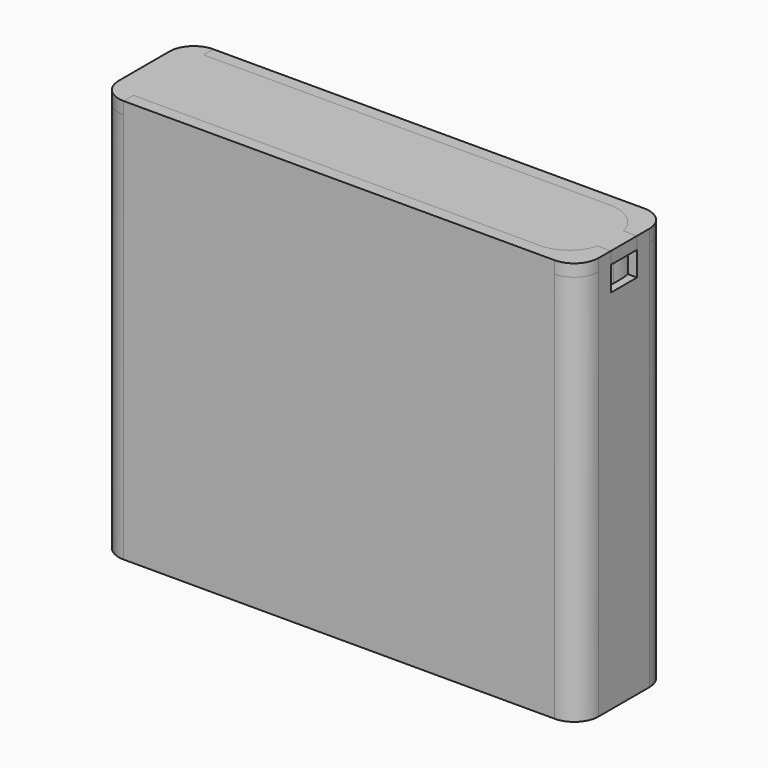
from build123d import *

# Parameters (mm, degrees)
SKETCH_W        = 117.7
SKETCH_H        = 27.5
SKETCH_R        = 2
PAD_DEPTH       = 2
SKETCH001_W     = 117.7
SKETCH001_H     = 27.5
SKETCH001_W_2   = 113.7
SKETCH001_H_2   = 23.5
PAD001_DEPTH    = 94
FILLET_R        = 10
FILLET001_R     = 6
SKETCH002_R     = 3.5
PAD002_DEPTH    = 5
SKETCH003_W     = 4
SKETCH003_H     = 8
POCKET_DEPTH    = 6
PAD003_DEPTH    = 1.5
PAD004_DEPTH    = 1.5
SKETCH006_W     = 6
SKETCH006_H     = 8
POCKET001_DEPTH = 3
PAD005_DEPTH    = 1.5
PAD006_DEPTH    = 1.5
SKETCH009_W     = 8
SKETCH009_H     = 3
PAD007_DEPTH    = 3
FILLET002_R     = 5.99


with BuildPart() as shell:
    # Sketch → Pad (new body)
    with BuildSketch(Plane.XY):
        Rectangle(SKETCH_W, SKETCH_H)
        with Locations((8, -8)):
            Circle(SKETCH_R, mode=Mode.SUBTRACT)
        with Locations((16, -8)):
            Circle(SKETCH_R, mode=Mode.SUBTRACT)
        with Locations((24, -8)):
            Circle(SKETCH_R, mode=Mode.SUBTRACT)
        with Locations((32, -8)):
            Circle(SKETCH_R, mode=Mode.SUBTRACT)
        with Locations((40, -8)):
            Circle(SKETCH_R, mode=Mode.SUBTRACT)
        with Locations((48, -8)):
            Circle(SKETCH_R, mode=Mode.SUBTRACT)
        with Locations((48, 0)):
            Circle(SKETCH_R, mode=Mode.SUBTRACT)
        with Locations((40, 0)):
            Circle(SKETCH_R, mode=Mode.SUBTRACT)
        with Locations((32, 0)):
            Circle(SKETCH_R, mode=Mode.SUBTRACT)
        with Locations((24, 0)):
            Circle(SKETCH_R, mode=Mode.SUBTRACT)
        with Locations((16, 0)):
            Circle(SKETCH_R, mode=Mode.SUBTRACT)
        with Locations((8, 0)):
            Circle(SKETCH_R, mode=Mode.SUBTRACT)
        Circle(SKETCH_R, mode=Mode.SUBTRACT)
        with Locations((0, -8)):
            Circle(SKETCH_R, mode=Mode.SUBTRACT)
        with Locations((0, 8)):
            Circle(SKETCH_R, mode=Mode.SUBTRACT)
        with Locations((8, 8)):
            Circle(SKETCH_R, mode=Mode.SUBTRACT)
        with Locations((16, 8)):
            Circle(SKETCH_R, mode=Mode.SUBTRACT)
        with Locations((24, 8)):
            Circle(SKETCH_R, mode=Mode.SUBTRACT)
        with Locations((32, 8)):
            Circle(SKETCH_R, mode=Mode.SUBTRACT)
        with Locations((40, 8)):
            Circle(SKETCH_R, mode=Mode.SUBTRACT)
        with Locations((48, 8)):
            Circle(SKETCH_R, mode=Mode.SUBTRACT)
        with Locations((-8, -8)):
            Circle(SKETCH_R, mode=Mode.SUBTRACT)
        with Locations((-8, 0)):
            Circle(SKETCH_R, mode=Mode.SUBTRACT)
        with Locations((-8, 8)):
            Circle(SKETCH_R, mode=Mode.SUBTRACT)
        with Locations((-16, 8)):
            Circle(SKETCH_R, mode=Mode.SUBTRACT)
        with Locations((-16, 0)):
            Circle(SKETCH_R, mode=Mode.SUBTRACT)
        with Locations((-16, -8)):
            Circle(SKETCH_R, mode=Mode.SUBTRACT)
        with Locations((-24, -8)):
            Circle(SKETCH_R, mode=Mode.SUBTRACT)
        with Locations((-32, -8)):
            Circle(SKETCH_R, mode=Mode.SUBTRACT)
        with Locations((-40, -8)):
            Circle(SKETCH_R, mode=Mode.SUBTRACT)
        with Locations((-48, -8)):
            Circle(SKETCH_R, mode=Mode.SUBTRACT)
        with Locations((-48, 0)):
            Circle(SKETCH_R, mode=Mode.SUBTRACT)
        with Locations((-40, 0)):
            Circle(SKETCH_R, mode=Mode.SUBTRACT)
        with Locations((-32, 0)):
            Circle(SKETCH_R, mode=Mode.SUBTRACT)
        with Locations((-24, 0)):
            Circle(SKETCH_R, mode=Mode.SUBTRACT)
        with Locations((-24, 8)):
            Circle(SKETCH_R, mode=Mode.SUBTRACT)
        with Locations((-32, 8)):
            Circle(SKETCH_R, mode=Mode.SUBTRACT)
        with Locations((-40, 8)):
            Circle(SKETCH_R, mode=Mode.SUBTRACT)
        with Locations((-48, 8)):
            Circle(SKETCH_R, mode=Mode.SUBTRACT)
    extrude(amount=PAD_DEPTH)

    # Sketch001 (on Face45 of Pad) → Pad001 (join)
    with BuildSketch(Plane.XY.offset(2)):
        Rectangle(SKETCH001_W, SKETCH001_H)
        Rectangle(SKETCH001_W_2, SKETCH001_H_2, mode=Mode.SUBTRACT)
    extrude(amount=PAD001_DEPTH)

    # Fillet
    fillet_edges = [shell.edges().sort_by_distance(p)[0] for p in [
        (56.85, 11.75, 49),
        (56.85, -11.75, 49),
        (-56.85, 11.75, 49),
        (-56.85, -11.75, 49),
    ]]
    fillet(fillet_edges, radius=FILLET_R)

    # Fillet001
    fillet001_edges = [shell.edges().sort_by_distance(p)[0] for p in [
        (58.85, -13.75, 48),
        (58.85, 13.75, 48),
        (-58.85, -13.75, 48),
        (-58.85, 13.75, 48),
    ]]
    fillet(fillet001_edges, radius=FILLET001_R)

    # Sketch002 (on Face19 of Fillet001) → Pad002 (join)
    with BuildSketch(Plane.XY.offset(2)):
        with BuildLine():
            Line((-46.85, -11.75), (46.85, -11.75))
            ThreePointArc((46.85, -11.75), (53.921068, -8.821068), (56.85, -1.75))
            Line((56.85, -1.75), (56.85, 1.75))
            ThreePointArc((56.85, 1.75), (53.921068, 8.821068), (46.85, 11.75))
            Line((46.85, 11.75), (-46.85, 11.75))
            ThreePointArc((-46.85, 11.75), (-53.921068, 8.821068), (-56.85, 1.75))
            Line((-56.85, 1.75), (-56.85, -1.75))
            ThreePointArc((-56.85, -1.75), (-53.921068, -8.821068), (-46.85, -11.75))
        make_face()
        with Locations((8, -8)):
            Circle(SKETCH002_R, mode=Mode.SUBTRACT)
        with Locations((16, -8)):
            Circle(SKETCH002_R, mode=Mode.SUBTRACT)
        with Locations((24, -8)):
            Circle(SKETCH002_R, mode=Mode.SUBTRACT)
        with Locations((32, -8)):
            Circle(SKETCH002_R, mode=Mode.SUBTRACT)
        with Locations((40, -8)):
            Circle(SKETCH002_R, mode=Mode.SUBTRACT)
        with Locations((48, -8)):
            Circle(SKETCH002_R, mode=Mode.SUBTRACT)
        with Locations((48, 0)):
            Circle(SKETCH002_R, mode=Mode.SUBTRACT)
        with Locations((40, 0)):
            Circle(SKETCH002_R, mode=Mode.SUBTRACT)
        with Locations((32, 0)):
            Circle(SKETCH002_R, mode=Mode.SUBTRACT)
        with Locations((24, 0)):
            Circle(SKETCH002_R, mode=Mode.SUBTRACT)
        with Locations((16, 0)):
            Circle(SKETCH002_R, mode=Mode.SUBTRACT)
        with Locations((8, 0)):
            Circle(SKETCH002_R, mode=Mode.SUBTRACT)
        Circle(SKETCH002_R, mode=Mode.SUBTRACT)
        with Locations((0, -8)):
            Circle(SKETCH002_R, mode=Mode.SUBTRACT)
        with Locations((0, 8)):
            Circle(SKETCH002_R, mode=Mode.SUBTRACT)
        with Locations((8, 8)):
            Circle(SKETCH002_R, mode=Mode.SUBTRACT)
        with Locations((16, 8)):
            Circle(SKETCH002_R, mode=Mode.SUBTRACT)
        with Locations((24, 8)):
            Circle(SKETCH002_R, mode=Mode.SUBTRACT)
        with Locations((32, 8)):
            Circle(SKETCH002_R, mode=Mode.SUBTRACT)
        with Locations((40, 8)):
            Circle(SKETCH002_R, mode=Mode.SUBTRACT)
        with Locations((48, 8)):
            Circle(SKETCH002_R, mode=Mode.SUBTRACT)
        with Locations((-8, -8)):
            Circle(SKETCH002_R, mode=Mode.SUBTRACT)
        with Locations((-8, 0)):
            Circle(SKETCH002_R, mode=Mode.SUBTRACT)
        with Locations((-8, 8)):
            Circle(SKETCH002_R, mode=Mode.SUBTRACT)
        with Locations((-16, 8)):
            Circle(SKETCH002_R, mode=Mode.SUBTRACT)
        with Locations((-16, 0)):
            Circle(SKETCH002_R, mode=Mode.SUBTRACT)
        with Locations((-16, -8)):
            Circle(SKETCH002_R, mode=Mode.SUBTRACT)
        with Locations((-24, -8)):
            Circle(SKETCH002_R, mode=Mode.SUBTRACT)
        with Locations((-32, -8)):
            Circle(SKETCH002_R, mode=Mode.SUBTRACT)
        with Locations((-40, -8)):
            Circle(SKETCH002_R, mode=Mode.SUBTRACT)
        with Locations((-48, -8)):
            Circle(SKETCH002_R, mode=Mode.SUBTRACT)
        with Locations((-48, 0)):
            Circle(SKETCH002_R, mode=Mode.SUBTRACT)
        with Locations((-40, 0)):
            Circle(SKETCH002_R, mode=Mode.SUBTRACT)
        with Locations((-32, 0)):
            Circle(SKETCH002_R, mode=Mode.SUBTRACT)
        with Locations((-24, 0)):
            Circle(SKETCH002_R, mode=Mode.SUBTRACT)
        with Locations((-24, 8)):
            Circle(SKETCH002_R, mode=Mode.SUBTRACT)
        with Locations((-32, 8)):
            Circle(SKETCH002_R, mode=Mode.SUBTRACT)
        with Locations((-40, 8)):
            Circle(SKETCH002_R, mode=Mode.SUBTRACT)
        with Locations((-48, 8)):
            Circle(SKETCH002_R, mode=Mode.SUBTRACT)
    extrude(amount=PAD002_DEPTH)

    # Sketch003 (on Face1 of Pad002) → Pocket (cut)
    with BuildSketch(Plane.XY.offset(96)):
        with Locations((57.85, 0)):
            Rectangle(SKETCH003_W, SKETCH003_H)
    extrude(amount=-POCKET_DEPTH, mode=Mode.SUBTRACT)

    # Sketch004 (on Face1 of Pocket) → Pad003 (join)
    with BuildSketch(Plane.XY.offset(96)):
        with BuildLine():
            Line((-46.85, -12.75), (46.85, -12.75))
            ThreePointArc((46.85, -12.75), (54.628175, -9.528175), (57.85, -1.75))
            Line((57.85, -1.75), (57.85, 1.75))
            ThreePointArc((57.85, 1.75), (54.628175, 9.528175), (46.85, 12.75))
            Line((46.85, 12.75), (-46.85, 12.75))
            Line((-52.85, 12.75), (-46.85, 12.75))
            Line((-52.85, 13.75), (-52.85, 12.75))
            Line((52.85, 13.75), (-52.85, 13.75))
            ThreePointArc((58.85, 7.75), (57.092641, 11.992641), (52.85, 13.75))
            Line((58.85, -7.75), (58.85, 7.75))
            ThreePointArc((52.85, -13.75), (57.092641, -11.992641), (58.85, -7.75))
            Line((-52.85, -13.75), (52.85, -13.75))
            Line((-52.85, -13.75), (-52.85, -12.75))
            Line((-52.85, -12.75), (-46.85, -12.75))
        make_face()
    extrude(amount=PAD003_DEPTH)

    # Sketch005 (on Face21 of Pad003) → Pad004 (join)
    with BuildSketch(Plane.XY.offset(97.5)):
        with BuildLine():
            Line((-46.85, -10.75), (46.85, -10.75))
            ThreePointArc((46.85, -10.75), (53.213961, -8.113961), (55.85, -1.75))
            Line((55.85, -1.75), (55.85, 1.75))
            ThreePointArc((55.85, 1.75), (53.213961, 8.113961), (46.85, 10.75))
            Line((46.85, 10.75), (-46.85, 10.75))
            Line((-52.85, 10.75), (-46.85, 10.75))
            Line((-52.85, 13.75), (-52.85, 10.75))
            Line((52.85, 13.75), (-52.85, 13.75))
            ThreePointArc((58.85, 7.75), (57.092641, 11.992641), (52.85, 13.75))
            Line((58.85, -7.75), (58.85, 7.75))
            ThreePointArc((52.85, -13.75), (57.092641, -11.992641), (58.85, -7.75))
            Line((-52.85, -13.75), (52.85, -13.75))
            Line((-52.85, -13.75), (-52.85, -10.75))
            Line((-52.85, -10.75), (-46.85, -10.75))
        make_face()
    extrude(amount=PAD004_DEPTH)

    # Sketch006 (on Face65 of Pad004) → Pocket001 (cut)
    with BuildSketch(Plane.XY.offset(99)):
        with Locations((57.85, 0)):
            Rectangle(SKETCH006_W, SKETCH006_H)
    extrude(amount=-POCKET001_DEPTH, mode=Mode.SUBTRACT)


with BuildPart() as top:
    # Sketch007 → Pad005 (new body)
    with BuildSketch(Plane.XY):
        with BuildLine():
            Line((-46.85, -12.75), (46.85, -12.75))
            ThreePointArc((46.85, -12.75), (54.628175, -9.528175), (57.85, -1.75))
            Line((57.85, -1.75), (57.85, 1.75))
            ThreePointArc((57.85, 1.75), (54.628175, 9.528175), (46.85, 12.75))
            Line((46.85, 12.75), (-46.85, 12.75))
            Line((-52.85, 12.75), (-46.85, 12.75))
            Line((-52.85, 13.75), (-52.85, 12.75))
            Line((-58.85, 13.75), (-52.85, 13.75))
            Line((-58.85, -13.75), (-58.85, 13.75))
            Line((-52.85, -13.75), (-58.85, -13.75))
            Line((-52.85, -12.75), (-52.85, -13.75))
            Line((-46.85, -12.75), (-52.85, -12.75))
        make_face()
    extrude(amount=PAD005_DEPTH)

    # Sketch008 (on Face10 of Pad005) → Pad006 (join)
    with BuildSketch(Plane.XY.offset(1.5)):
        with BuildLine():
            Line((-46.85, -10.75), (46.85, -10.75))
            ThreePointArc((46.85, -10.75), (53.213961, -8.113961), (55.85, -1.75))
            Line((55.85, -1.75), (55.85, 1.75))
            ThreePointArc((55.85, 1.75), (53.213961, 8.113961), (46.85, 10.75))
            Line((46.85, 10.75), (-46.85, 10.75))
            Line((-46.85, 10.75), (-52.85, 10.75))
            Line((-52.85, 10.75), (-52.85, 13.75))
            Line((-52.85, 13.75), (-58.85, 13.75))
            Line((-58.85, 13.75), (-58.85, -13.75))
            Line((-58.85, -13.75), (-52.85, -13.75))
            Line((-52.85, -13.75), (-52.85, -10.75))
            Line((-52.85, -10.75), (-46.85, -10.75))
        make_face()
    extrude(amount=PAD006_DEPTH)

    # Sketch009 (on Face10 of Pad006) → Pad007 (join, symmetric)
    with BuildSketch(Plane.YZ.offset(55.85)):
        with Locations((0, 1.5)):
            Rectangle(SKETCH009_W, SKETCH009_H)
    extrude(amount=PAD007_DEPTH, both=True)

    # Fillet002
    fillet002_edges = [top.edges().sort_by_distance(p)[0] for p in [
        (-58.85, 13.75, 1.5),
        (-58.85, -13.75, 1.5),
    ]]
    fillet(fillet002_edges, radius=FILLET002_R)


with BuildPart() as top_1:
    # Body001 placement: moved
    add(top.part.moved(Location((0, 0, 96))))


solid = Compound([shell.part, top_1.part])
